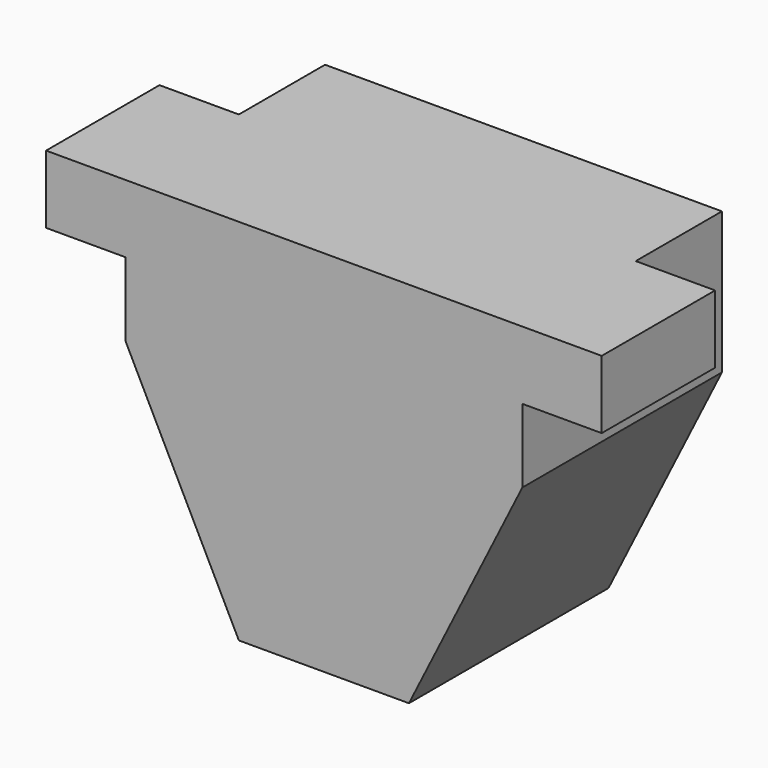
from build123d import *

# Parameters (mm, degrees)
F1_DEPTH = 44
F2_W     = 14
F2_H     = 12
F3_DEPTH = 25


with BuildPart() as f1:
    # F0 (on Front) → F1 (new body)
    with BuildSketch(Plane.XZ):
        Polygon((35, 20.5), (35, 32.5), (-35, 32.5), (-35, 20.5), (-35, 20), (-35, 7.5), (-15, -32.5), (15, -32.5), (35, 7.5), align=None)
    extrude(amount=F1_DEPTH)

    # F2 (on face) → F3 (join)
    with BuildSketch(Plane.XZ.offset(44)):
        with Locations((-42, 26.5)):
            Rectangle(F2_W, F2_H)
        with Locations((42, 26.5)):
            Rectangle(F2_W, F2_H)
    extrude(amount=-F3_DEPTH)


solid = f1.part
